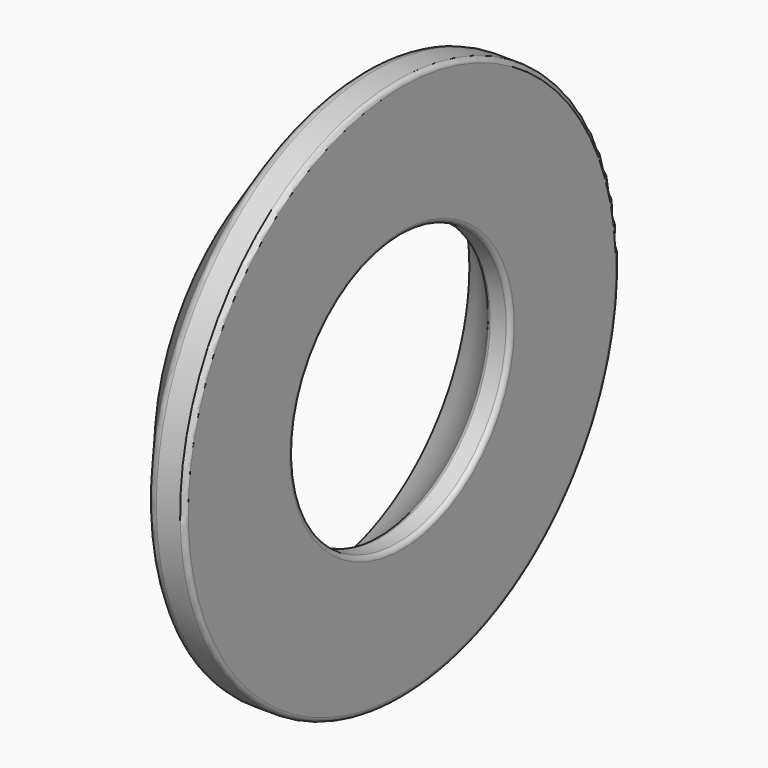
from build123d import *

# Parameters (mm, degrees)
F2_R = 0.2
F3_R = 0.5
F4_R = 0.2
F5_R = 0.1
F6_R = 0.2


with BuildPart() as f1:
    # F0 (on Front) → F1 (revolve)
    with BuildSketch(Plane.XZ):
        with BuildLine():
            ThreePointArc((-4, 8.660254), (-2.3653, 7.482029), (-1, 6))
            Line((-1, 6), (0, 6))
            Line((0, 6), (0, 12))
            Line((0, 12), (-1.5, 12))
            Line((-1.5, 12), (-4, 8.660254))
        make_face()
    revolve(axis=Axis((-2.196088, 0, 0), (1, 0, 0)))

    # F2
    f2_edges = [f1.edges().sort_by_distance(p)[0] for p in [
        (-1, 0, -6),
    ]]
    fillet(f2_edges, radius=F2_R)

    # F3
    f3_edges = [f1.edges().sort_by_distance(p)[0] for p in [
        (-1.5, 0, -12),
    ]]
    fillet(f3_edges, radius=F3_R)

    # F4
    f4_edges = [f1.edges().sort_by_distance(p)[0] for p in [
        (0, 0, -12),
    ]]
    fillet(f4_edges, radius=F4_R)

    # F5
    f5_edges = [f1.edges().sort_by_distance(p)[0] for p in [
        (-4, 0, -8.660254),
    ]]
    fillet(f5_edges, radius=F5_R)

    # F6
    f6_edges = [f1.edges().sort_by_distance(p)[0] for p in [
        (0, 0, -6),
    ]]
    fillet(f6_edges, radius=F6_R)


solid = f1.part
